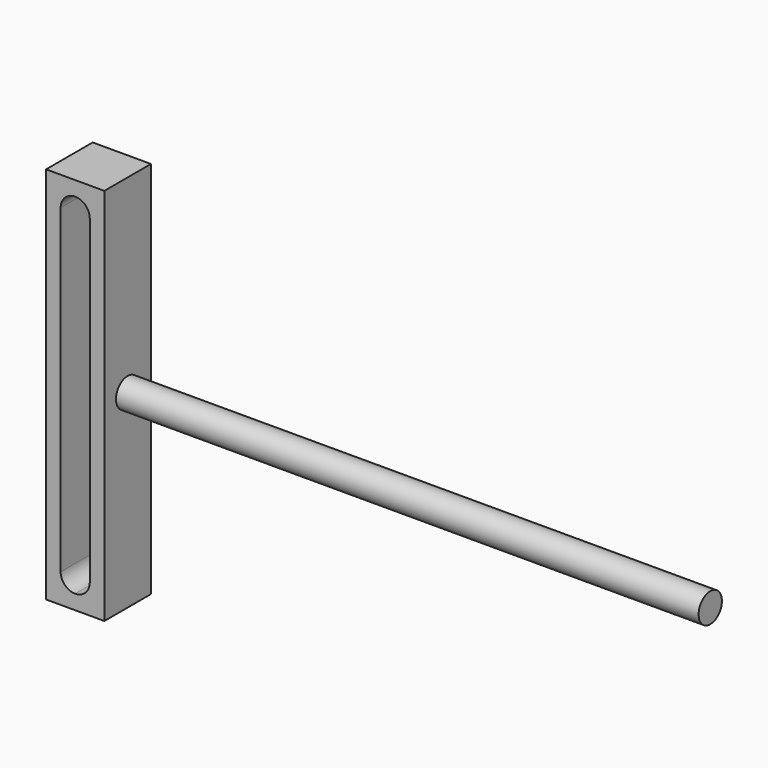
from build123d import *

# Parameters (mm, degrees)
F0_W          = 20
F0_H          = 130
F1_DEPTH      = 10
F1_DEPTH_BACK = 10
F2_R          = 5
F3_DEPTH      = 200


with BuildPart() as f1:
    # F0 (on Front) → F1 (new body, two sides)
    with BuildSketch(Plane.XZ) as f1_sk:
        Rectangle(F0_W, F0_H)
        with BuildLine():
            ThreePointArc((0, 60), (3.535534, 58.535534), (5, 55))
            Line((5, 55), (5, -54.999999))
            ThreePointArc((5, -54.999999), (3.535534, -58.535533), (0, -59.999999))
            ThreePointArc((0, -59.999999), (-3.535534, -58.535533), (-5, -54.999999))
            Line((-5, -54.999999), (-5, 55))
            ThreePointArc((-5, 55), (-3.535534, 58.535534), (0, 60))
        make_face(mode=Mode.SUBTRACT)
    extrude(amount=F1_DEPTH)
    extrude(f1_sk.sketch, amount=-F1_DEPTH_BACK)

    # F2 (on face) → F3 (join)
    with BuildSketch(Plane.YZ.offset(10)):
        Circle(F2_R)
    extrude(amount=F3_DEPTH)


solid = f1.part
